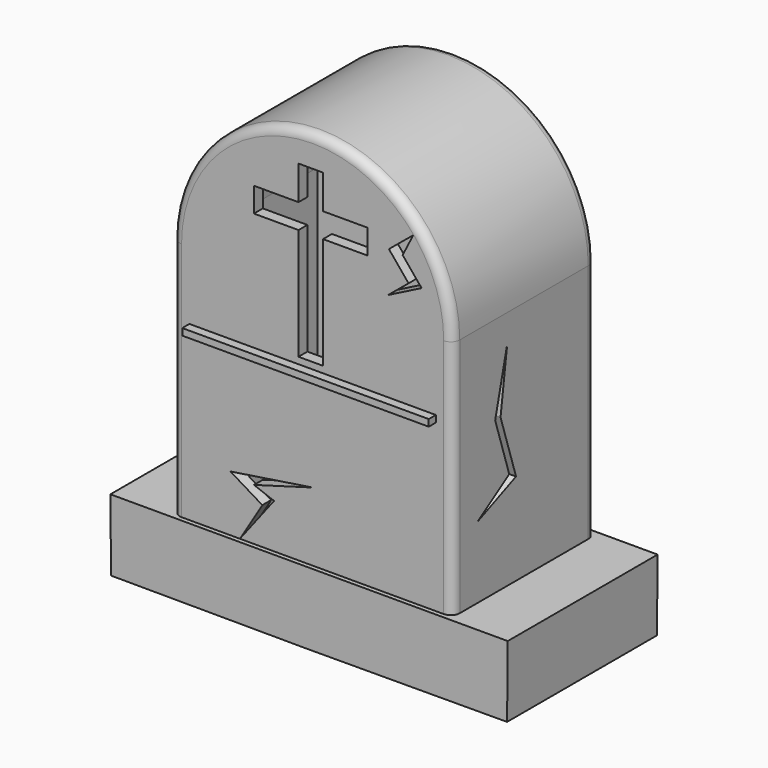
from build123d import *

# Parameters (mm, degrees)
F1_DEPTH  = 20
F3_DEPTH  = 21
F4_T      = -2.5
F6_W      = 10
F6_H      = 5.5
F7_DEPTH  = 25
F8_W      = 55.2565678954
F8_H      = 1.5035793185
F9_DEPTH  = 2
F10_R     = 2
F12_DEPTH = 70
F14_DEPTH = 25
F16_DEPTH = 25
F17_W     = 13.128624599
F17_H     = 37
F18_DEPTH = 13.5
F19_W     = 13.128624711
F19_H     = 37
F20_DEPTH = 13.5
F21_W     = 57.774464488
F21_H     = 1
F21_W_2   = 57.7263757586
F21_H_2   = 1.2739617378
F22_DEPTH = 13.5


with BuildPart() as f1:
    # F0 (on Front) → F1 (new body, symmetric)
    with BuildSketch(Plane.XZ):
        with BuildLine():
            Line((31.387232244, -27.2523891181), (31.387232244, 27.0644389093))
            ThreePointArc((31.387232244, 27.0644389093), (0, 58.4516711533), (-31.387232244, 27.0644389093))
            Line((-31.387232244, 27.0644389093), (-31.387232244, -27.2523891181))
            Line((-31.387232244, -27.2523891181), (31.387232244, -27.2523891181))
        make_face()
    extrude(amount=F1_DEPTH, both=True)

    # F2 (on Front) → F3 (join, symmetric)
    with BuildSketch(Plane.XZ):
        Polygon((31.1992858725, -26.8764924258), (-31.1992857605, -26.8764924258), (-44.5384809197, -26.8764924258), (-44.3942922286, -42.8813642573), (5.62e-08, -43.0360519628), (44.3942923407, -42.8813642573), (44.5384810317, -26.8764924258), align=None)
    extrude(amount=F3_DEPTH, both=True)

    # F4
    f4_openings = [f1.faces().sort_by_distance(p)[0] for p in [
        (-22.197146, 0, -42.958708),
        (22.197146, 0, -42.958708),
    ]]
    offset(amount=F4_T, openings=f4_openings, kind=Kind.INTERSECTION)

    # F6 (on face) → F7 (cut)
    with BuildSketch(Plane.XZ.offset(20)):
        Polygon((2.3308762088, 51.4463313338), (-3.1691237912, 51.4463313338), (-3.1691237912, 43.8206121624), (-3.1691237912, 38.3206121624), (-3.1691237912, 13.312992971), (2.3308762088, 13.312992971), (2.3308762088, 38.3206121624), (2.3308762088, 43.8206121624), align=None)
        with Locations((-8.1691237912, 41.0706121624)):
            Rectangle(F6_W, F6_H)
        with Locations((7.3308762088, 41.0706121624)):
            Rectangle(F6_W, F6_H)
    extrude(amount=-F7_DEPTH, mode=Mode.SUBTRACT)

    # F8 (on face) → F9 (join)
    with BuildSketch(Plane.XZ.offset(20)):
        with Locations((0, 11.088903062)):
            Rectangle(F8_W, F8_H)
    extrude(amount=F9_DEPTH)

    # F10
    f10_edges = [f1.edges().sort_by_distance(p)[0] for p in [
        (0, -20, 58.451671),
        (0, 20, 58.451671),
    ]]
    fillet(f10_edges, radius=F10_R)

    # F11 (on face) → F12 (cut)
    with BuildSketch(Plane.YZ.offset(31.387232244)):
        Polygon((-4.1348445229, -5.0745825283), (-13.156324625, -10.9009547159), (-2.2320076807, -6.3103797534), (-6.5781623125, 7.1420050226), (-4.698687233, 20.8621732891), (-8.081741631, 7.1420050226), align=None)
    extrude(amount=-F12_DEPTH, mode=Mode.SUBTRACT)

    # F13 (on face) → F14 (cut)
    with BuildSketch(Plane.XZ.offset(20)):
        Polygon((-11.2768495455, -18.6068024486), (-16.1634851247, -26.6885459423), (-8.6455848068, -16.915274784), (-13.156324625, -15.2237480506), (0, -11.4647978917), (-18.4239908566, -14.2852751634), align=None)
    extrude(amount=-F14_DEPTH, mode=Mode.SUBTRACT)

    # F15 (on face) → F16 (cut)
    with BuildSketch(Plane.XZ.offset(20)):
        Polygon((20.1853319103, 40.9697728612), (22.5537028164, 45.6712394953), (17.1032212675, 41.1605015397), (21.5089086938, 35.8369561988), (16.9085077893, 32.0297324177), (24.4331751019, 35.8369561988), align=None)
    extrude(amount=-F16_DEPTH, mode=Mode.SUBTRACT)

    # F17 (on face) → F18 (join)
    with BuildSketch(Plane(origin=(0, 0, -29.3764924258), x_dir=(1, 0, 0), z_dir=(0, 0, -1))):
        with Locations((-35.4515445435, 0)):
            Rectangle(F17_W, F17_H)
    extrude(amount=F18_DEPTH)

    # F19 (on face) → F20 (join)
    with BuildSketch(Plane(origin=(0, 0, -29.3764924258), x_dir=(1, 0, 0), z_dir=(0, 0, -1))):
        with Locations((35.4515445995, 0)):
            Rectangle(F19_W, F19_H)
    extrude(amount=F20_DEPTH)

    # F21 (on face) → F22 (join)
    with BuildSketch(Plane(origin=(0, 0, -29.3764924258), x_dir=(1, 0, 0), z_dir=(0, 0, -1))):
        with Locations((0, 18)):
            Rectangle(F21_W, F21_H)
        with Locations((0.0108480453, -17.9641498253)):
            Rectangle(F21_W_2, F21_H_2)
    extrude(amount=F22_DEPTH)


solid = f1.part
